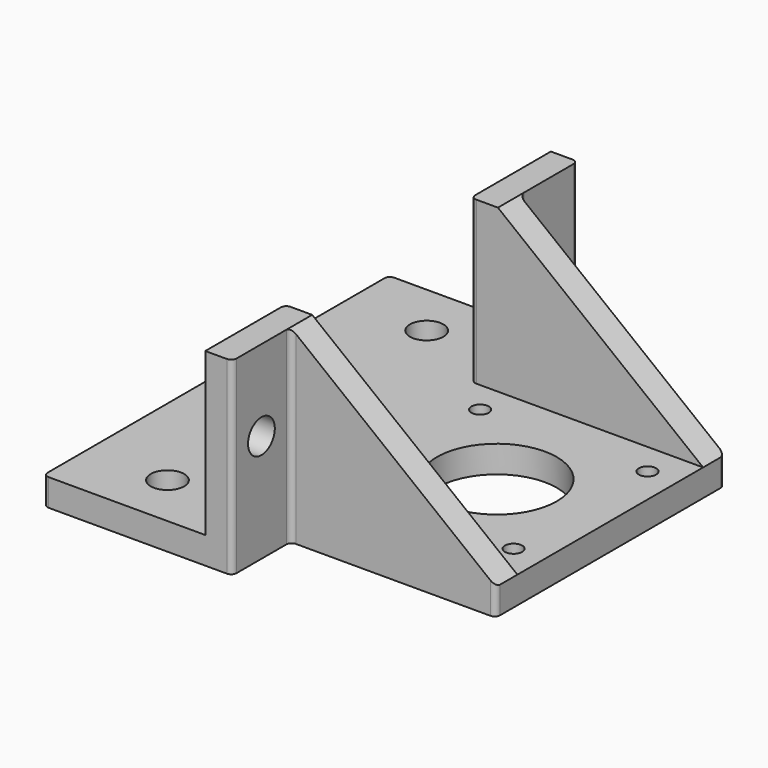
from build123d import *

# Parameters (mm, degrees)
SKETCH_R             = 11.1
SKETCH_R_2           = 3.1
SKETCH_R_3           = 1.6
PAD_DEPTH            = 5
PAD001_DEPTH         = 30
SKETCH002_R          = 3.1
POCKET_DEPTH         = 43.001
POCKET001_DEPTH      = 40.001
POCKET001_DEPTH_BACK = -40.001
FILLET_R             = 1
SKETCH004_R          = 0.5
POCKET002_DEPTH      = 5.001
POCKET002_DEPTH_BACK = -30.001


with BuildPart() as part:
    # Sketch → Pad (new body)
    with BuildSketch(Plane.XY):
        Polygon((-30, 40), (-30, -40), (5, -40), (5, -26.5), (43, -26.5), (43, 26.5), (5, 26.5), (5, 40), align=None)
        with Locations((22, 0)):
            Circle(SKETCH_R, mode=Mode.SUBTRACT)
        with Locations((-15, 30)):
            Circle(SKETCH_R_2, mode=Mode.SUBTRACT)
        with Locations((-15, -30)):
            Circle(SKETCH_R_2, mode=Mode.SUBTRACT)
        with Locations((6.5, -15.5)):
            Circle(SKETCH_R_3, mode=Mode.SUBTRACT)
        with Locations((37.5, -15.5)):
            Circle(SKETCH_R_3, mode=Mode.SUBTRACT)
        with Locations((37.5, 15.5)):
            Circle(SKETCH_R_3, mode=Mode.SUBTRACT)
        with Locations((6.5, 15.5)):
            Circle(SKETCH_R_3, mode=Mode.SUBTRACT)
    extrude(amount=-PAD_DEPTH)

    # Sketch001 → Pad001 (join)
    with BuildSketch(Plane.XY):
        Polygon((0, -40), (5, -40), (5, -26.5), (43, -26.5), (43, -21.5), (0, -21.5), align=None)
        Polygon((0, 21.5), (43, 21.5), (43, 26.5), (5, 26.5), (5, 40), (0, 40), align=None)
    extrude(amount=PAD001_DEPTH)

    # Sketch002 → Pocket (cut, through all)
    with BuildSketch(Plane.YZ):
        with Locations((-33.25, 15)):
            Circle(SKETCH002_R)
        with Locations((33.25, 15)):
            Circle(SKETCH002_R)
    extrude(amount=POCKET_DEPTH, mode=Mode.SUBTRACT)

    # Sketch003 → Pocket001 (cut, two sides)
    with BuildSketch(Plane.XZ) as pocket001_sk:
        Polygon((5, 30), (43, 30), (43, 0), align=None)
    extrude(amount=-POCKET001_DEPTH, mode=Mode.SUBTRACT)
    extrude(pocket001_sk.sketch, amount=-POCKET001_DEPTH_BACK, mode=Mode.SUBTRACT)

    # Fillet
    fillet_edges = [part.edges().sort_by_distance(p)[0] for p in [
        (5, -26.5, 12.5),
        (5, 26.5, 12.5),
        (43, 26.5, -2.5),
        (43, -26.5, -2.5),
        (0, -21.5, 15),
        (0, 21.5, 15),
        (5, -40, 12.5),
        (5, 40, 12.5),
        (-30, 40, -2.5),
        (-30, -40, -2.5),
    ]]
    fillet(fillet_edges, radius=FILLET_R)

    # Sketch004 (on Face2 of Fillet) → Pocket002 (cut, two sides)
    with BuildSketch(Plane.XY) as pocket002_sk:
        with Locations((-30, 0)):
            Circle(SKETCH004_R)
    extrude(amount=-POCKET002_DEPTH, mode=Mode.SUBTRACT)
    extrude(pocket002_sk.sketch, amount=-POCKET002_DEPTH_BACK, mode=Mode.SUBTRACT)


solid = part.part
